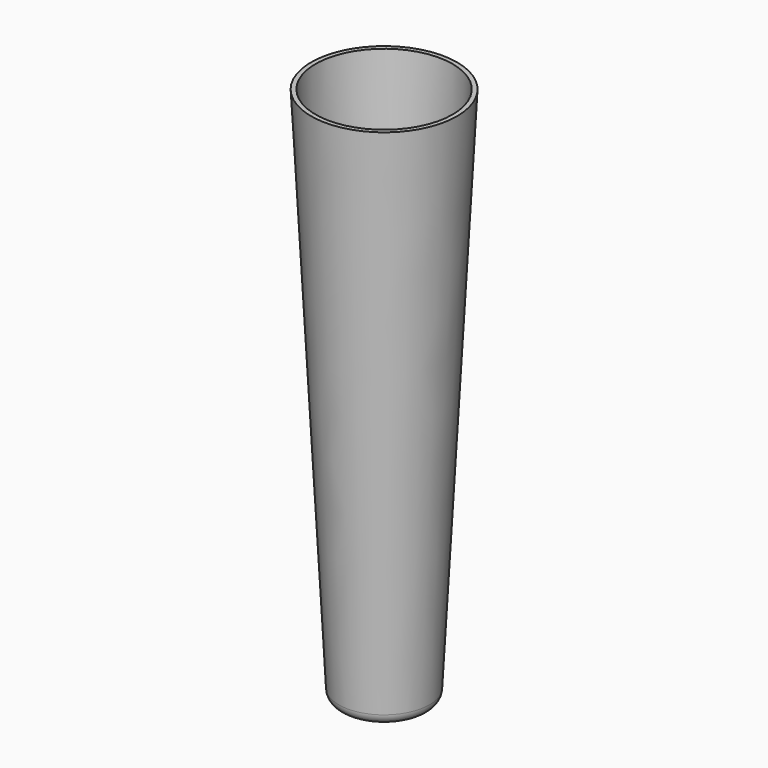
from build123d import *

# Parameters (mm, degrees)
F0_R     = 25.4
F1_DEPTH = 304.8
F1_TAPER = -3
F2_R     = 6.35
F3_T     = -2.54


with BuildPart() as f1:
    # F0 (on Top) → F1 (new body)
    with BuildSketch(Plane.XY):
        Circle(F0_R)
    extrude(amount=F1_DEPTH, taper=F1_TAPER)

    # F2
    f2_edges = [f1.edges().sort_by_distance(p)[0] for p in [
        (-25.4, 0, 0),
    ]]
    fillet(f2_edges, radius=F2_R)

    # F3
    f3_openings = [f1.faces().sort_by_distance(p)[0] for p in [
        (0, 0, 304.8),
    ]]
    offset(amount=F3_T, openings=f3_openings, kind=Kind.INTERSECTION)


solid = f1.part
